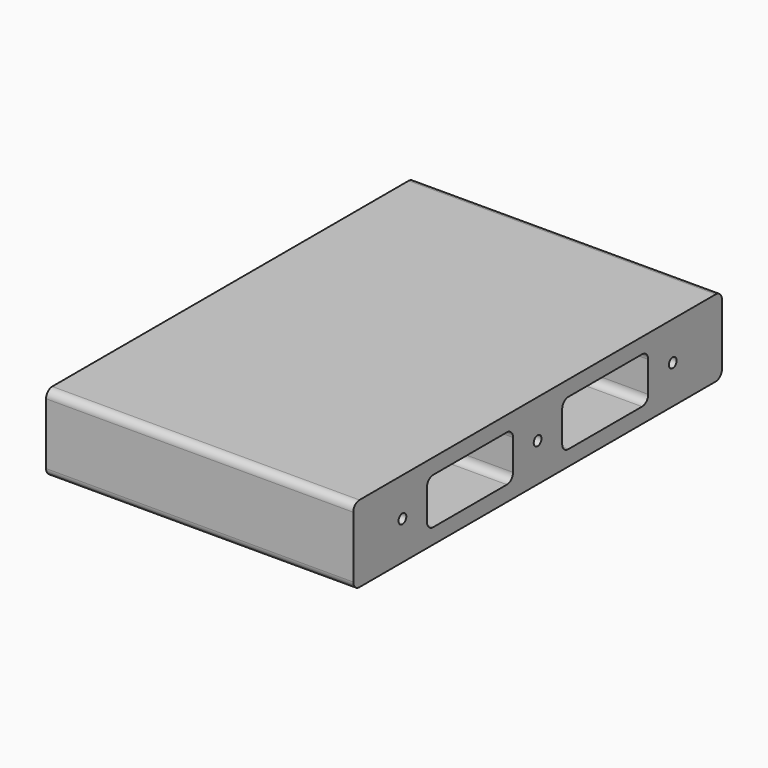
from build123d import *

# Parameters (mm, degrees)
F0_W     = 381
F0_H     = 63.5
F0_R     = 4
F1_DEPTH = 254
F2_R     = 6.35


with BuildPart() as f1:
    # F0 (on Right) → F1 (new body)
    with BuildSketch(Plane.YZ):
        Rectangle(F0_W, F0_H)
        with Locations((-139.7, 0)):
            Circle(F0_R, mode=Mode.SUBTRACT)
        with BuildLine():
            Line((-25.4, 12.7), (-25.4, 0))
            Line((-25.4, 0), (-25.4, -12.7))
            ThreePointArc((-25.4, -12.7), (-27.259872, -17.190128), (-31.75, -19.05))
            Line((-31.75, -19.05), (-107.95, -19.05))
            ThreePointArc((-107.95, -19.05), (-112.440128, -17.190128), (-114.3, -12.7))
            Line((-114.3, -12.7), (-114.3, 12.7))
            ThreePointArc((-114.3, 12.7), (-112.440128, 17.190128), (-107.95, 19.05))
            Line((-107.95, 19.05), (-31.75, 19.05))
            ThreePointArc((-31.75, 19.05), (-27.259872, 17.190128), (-25.4, 12.7))
        make_face(mode=Mode.SUBTRACT)
        with BuildLine():
            ThreePointArc((-4, 0), (0, 4), (4, 0))
            ThreePointArc((4, 0), (0, -4), (-4, 0))
        make_face(mode=Mode.SUBTRACT)
        with BuildLine():
            Line((25.4, -12.7), (25.4, 0))
            Line((25.4, 0), (25.4, 12.7))
            ThreePointArc((25.4, 12.7), (27.259872, 17.190128), (31.75, 19.05))
            Line((31.75, 19.05), (107.95, 19.05))
            ThreePointArc((107.95, 19.05), (112.440128, 17.190128), (114.3, 12.7))
            Line((114.3, 12.7), (114.3, -12.7))
            ThreePointArc((114.3, -12.7), (112.440128, -17.190128), (107.95, -19.05))
            Line((107.95, -19.05), (31.75, -19.05))
            ThreePointArc((31.75, -19.05), (27.259872, -17.190128), (25.4, -12.7))
        make_face(mode=Mode.SUBTRACT)
        with Locations((139.7, 0)):
            Circle(F0_R, mode=Mode.SUBTRACT)
    extrude(amount=-F1_DEPTH)

    # F2
    f2_edges = [f1.edges().sort_by_distance(p)[0] for p in [
        (-127, -190.5, -31.75),
        (-127, -190.5, 31.75),
        (-127, 190.5, 31.75),
        (-127, 190.5, -31.75),
    ]]
    fillet(f2_edges, radius=F2_R)


solid = f1.part
